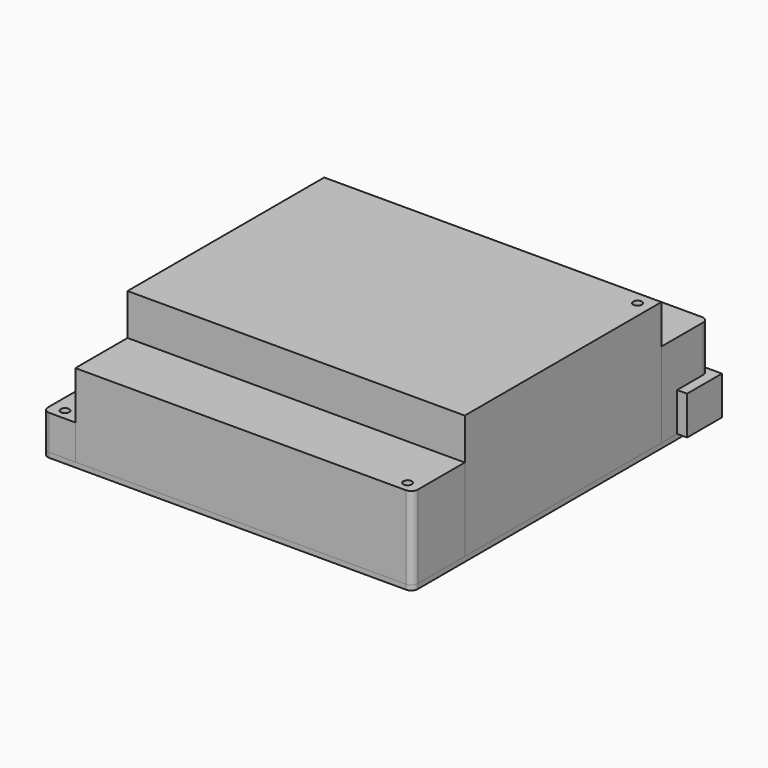
from build123d import *

# Parameters (mm, degrees)
F0_W     = 170
F0_H     = 170
F0_R     = 1.98
F1_DEPTH = 2.24
F2_R     = 3
F3_W     = 158.75
F3_H     = 20
F4_DEPTH = 17.76
F5_R     = 1.98
F6_DEPTH = 16
F7_DEPTH = 39
F8_DEPTH = 38
F5_W     = 155
F5_H     = 113
F9_DEPTH = 57


with BuildPart() as f1:
    # F0 (on Top) → F1 (new body)
    with BuildSketch(Plane.XY):
        Rectangle(F0_W, F0_H)
        with Locations((-78.65, -80.1)):
            Circle(F0_R, mode=Mode.SUBTRACT)
        with Locations((78.83, -80.1)):
            Circle(F0_R, mode=Mode.SUBTRACT)
        with Locations((-78.65, 74.84)):
            Circle(F0_R, mode=Mode.SUBTRACT)
        with Locations((78.83, 51.98)):
            Circle(F0_R, mode=Mode.SUBTRACT)
    extrude(amount=F1_DEPTH)

    # F2
    f2_edges = [f1.edges().sort_by_distance(p)[0] for p in [
        (-85, 85, 1.12),
        (-85, -85, 1.12),
        (85, -85, 1.12),
        (85, 85, 1.12),
    ]]
    fillet(f2_edges, radius=F2_R)


with BuildPart() as f4:
    # F3 (on face) → F4 (new body)
    with BuildSketch(Plane.XY.offset(2.24)):
        with Locations((10.225, 77)):
            Rectangle(F3_W, F3_H)
    extrude(amount=F4_DEPTH)


with BuildPart() as f6:
    # F5 (on face) → F6 (new body)
    with BuildSketch(Plane.XY.offset(2.24)):
        with BuildLine():
            Line((-70, -55), (-70, 58))
            Line((-70, 58), (-70, 85))
            Line((-70, 85), (-82, 85))
            ThreePointArc((-82, 85), (-84.12132, 84.12132), (-85, 82))
            Line((-85, 82), (-85, -82))
            ThreePointArc((-85, -82), (-84.12132, -84.12132), (-82, -85))
            Line((-82, -85), (-70, -85))
            Line((-70, -85), (-70, -55))
        make_face()
        with Locations((-78.65, -80.1)):
            Circle(F5_R, mode=Mode.SUBTRACT)
        with Locations((-78.65, 74.84)):
            Circle(F5_R, mode=Mode.SUBTRACT)
    extrude(amount=F6_DEPTH)


with BuildPart() as f7:
    # F5 (on face) → F7 (new body)
    with BuildSketch(Plane.XY.offset(2.24)):
        with BuildLine():
            Line((-70, 85), (-70, 58))
            Line((-70, 58), (85, 58))
            Line((85, 58), (85, 82))
            ThreePointArc((85, 82), (84.12132, 84.12132), (82, 85))
            Line((82, 85), (-70, 85))
        make_face()
    extrude(amount=F7_DEPTH)


with BuildPart() as f8:
    # F5 (on face) → F8 (new body)
    with BuildSketch(Plane.XY.offset(2.24)):
        with BuildLine():
            Line((85, -55), (-70, -55))
            Line((-70, -55), (-70, -85))
            Line((-70, -85), (82, -85))
            ThreePointArc((82, -85), (84.12132, -84.12132), (85, -82))
            Line((85, -82), (85, -55))
        make_face()
        with Locations((78.83, -80.1)):
            Circle(F5_R, mode=Mode.SUBTRACT)
    extrude(amount=F8_DEPTH)


with BuildPart() as f9:
    # F5 (on face) → F9 (new body)
    with BuildSketch(Plane.XY.offset(2.24)):
        with Locations((7.5, 1.5)):
            Rectangle(F5_W, F5_H)
        with Locations((78.83, 51.98)):
            Circle(F5_R, mode=Mode.SUBTRACT)
    extrude(amount=F9_DEPTH)


solid = Compound([f1.part, f4.part, f6.part, f7.part, f8.part, f9.part])
